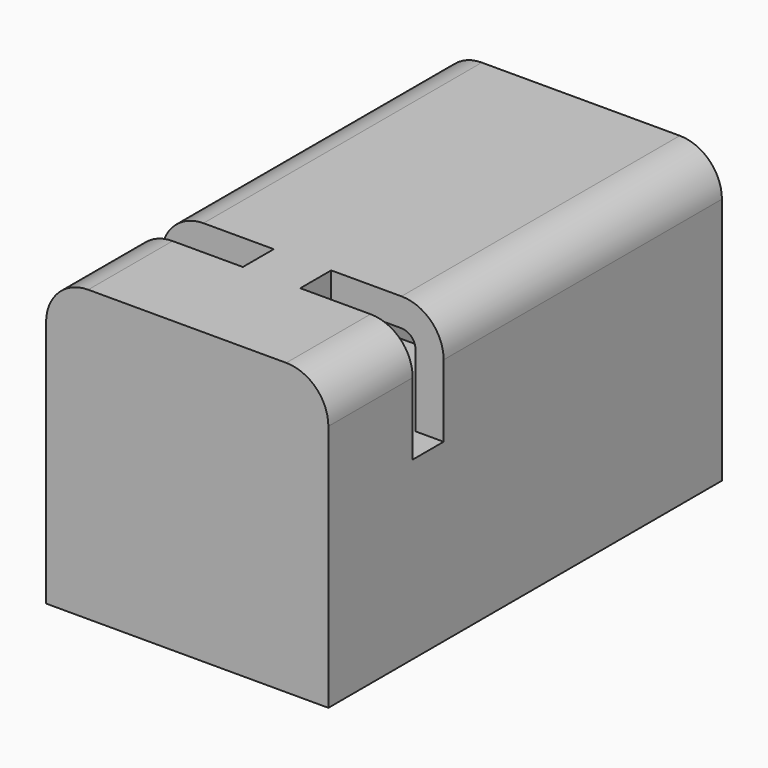
from build123d import *

# Parameters (mm, degrees)
F0_W      = 102.0336635411
F0_H      = 104.8214659095
F1_DEPTH  = 177.8
F2_R      = 15.24
F3_T      = -10.16
F4_W      = 13.97
F4_H      = 21.2457677329
F4_H_2    = 26.0814659095
F6_DEPTH  = 40.64
F5_W      = 13.97
F5_H      = 46.4908947945
F7_DEPTH  = 40.64
F8_R      = 15.24
F10_W     = 63.5
F10_H     = 12.7
F11_DEPTH = 91.186


with BuildPart() as f1:
    # F0 (on Front) → F1 (new body)
    with BuildSketch(Plane.XZ):
        with Locations((3.6009196192, -3.0814781785)):
            Rectangle(F0_W, F0_H)
    extrude(amount=F1_DEPTH)

    # F2
    f2_edges = [f1.edges().sort_by_distance(p)[0] for p in [
        (54.617751, -88.9, 49.329255),
    ]]
    fillet(f2_edges, radius=F2_R)

    # F3
    f3_openings = [f1.faces().sort_by_distance(p)[0] for p in [
        (3.60092, -88.9, -55.492211),
    ]]
    offset(amount=F3_T, openings=f3_openings)

    # F4 (on face) → F6 (cut)
    with BuildSketch(Plane.YZ.offset(54.6177513897)):
        with Locations((-132.715, 44.7121386427)):
            Rectangle(F4_W, F4_H)
        with Locations((-132.715, 21.0485218215)):
            Rectangle(F4_W, F4_H_2)
    extrude(amount=-F6_DEPTH, mode=Mode.SUBTRACT)

    # F5 (on face) → F7 (cut)
    with BuildSketch(Plane(origin=(-47.4159121513, 0, 0), x_dir=(0, -1, 0), z_dir=(-1, 0, 0))):
        with Locations((132.715, 31.253236264)):
            Rectangle(F5_W, F5_H)
    extrude(amount=-F7_DEPTH, mode=Mode.SUBTRACT)

    # F8
    f8_edges = [f1.edges().sort_by_distance(p)[0] for p in [
        (-47.415912, -62.865, 49.329255),
        (-47.415912, -158.75, 49.329255),
    ]]
    fillet(f8_edges, radius=F8_R)

    # F10 (on face) → F11 (join)
    with BuildSketch(Plane.YZ.offset(-37.2559121513)):
        with Locations((-115.8445860147, 1.6577888668)):
            Rectangle(F10_W, F10_H)
    extrude(amount=F11_DEPTH)


solid = f1.part
